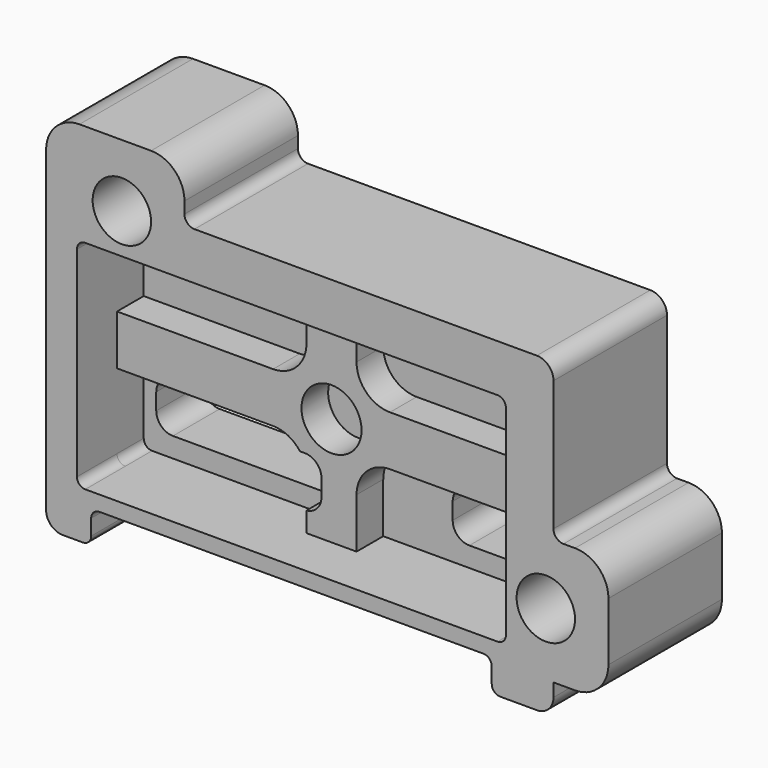
from build123d import *

# Parameters (mm, degrees)
SKETCH004_R     = 1.75
SKETCH004_W     = 11.5
SKETCH004_H     = 3
SKETCH004_W_2   = 6.5
PAD_DEPTH       = 8.5
FILLET_R        = 1
FILLET001_R     = 0.6
FILLET002_R     = 0.5
SKETCH_W        = 25.7
SKETCH_H        = 13
POCKET_DEPTH    = 3
FILLET003_R     = 0.5
SKETCH005_R     = 1.8
POCKET001_DEPTH = 2


with BuildPart() as part:
    # Sketch004 → Pad (new body)
    with BuildSketch(Plane.XZ):
        with BuildLine():
            Line((15.7, 8.35), (15.7, -0.06))
            Line((15.7, -0.06), (16.99, -0.06))
            ThreePointArc((18.99, -2.06), (18.404214, -0.645786), (16.99, -0.06))
            Line((18.99, -2.06), (18.99, -5.56))
            ThreePointArc((16.99, -7.56), (18.404214, -6.974214), (18.99, -5.56))
            Line((16.99, -7.56), (15.7, -7.56))
            Line((15.7, -8.35), (15.7, -7.56))
            ThreePointArc((14.7, -9.35), (15.407107, -9.057107), (15.7, -8.35))
            Line((14.7, -9.35), (12, -9.35))
            Line((12, -7.41), (12, -9.35))
            Line((-12, -7.41), (12, -7.41))
            Line((-12, -7.41), (-12, -9.35))
            Line((-12, -9.35), (-13.7, -9.35))
            ThreePointArc((-14.7, -8.35), (-14.407107, -9.057107), (-13.7, -9.35))
            Line((-14.7, -8.35), (-14.7, 10.64))
            ThreePointArc((-12.7, 12.64), (-14.114214, 12.054214), (-14.7, 10.64))
            Line((-12.7, 12.64), (-8.41, 12.64))
            ThreePointArc((-6.41, 10.64), (-6.995786, 12.054214), (-8.41, 12.64))
            Line((-6.41, 10.64), (-6.41, 9.35))
            Line((-6.41, 9.35), (14.7, 9.35))
            ThreePointArc((15.7, 8.35), (15.407107, 9.057107), (14.7, 9.35))
        make_face()
        with Locations((-10.16, 8.89)):
            Circle(SKETCH004_R, mode=Mode.SUBTRACT)
        with Locations((15.24, -3.81)):
            Circle(SKETCH004_R, mode=Mode.SUBTRACT)
        with Locations((-6.35, -3.81)):
            Rectangle(SKETCH004_W, SKETCH004_H, mode=Mode.SUBTRACT)
        with Locations((8.91, -3.81)):
            Rectangle(SKETCH004_W_2, SKETCH004_H, mode=Mode.SUBTRACT)
    extrude(amount=-PAD_DEPTH)

    # Fillet
    fillet_edges = [part.edges().sort_by_distance(p)[0] for p in [
        (12.16, 4.25, -5.31),
        (5.66, 4.25, -2.31),
        (12.16, 4.25, -2.31),
        (5.66, 4.25, -5.31),
        (-0.6, 4.25, -2.31),
        (-12.1, 4.25, -2.31),
        (-0.6, 4.25, -5.31),
        (-12.1, 4.25, -5.31),
    ]]
    fillet(fillet_edges, radius=FILLET_R)

    # Fillet001
    fillet001_edges = [part.edges().sort_by_distance(p)[0] for p in [
        (-6.41, 4.25, 9.35),
        (15.7, 4.25, -0.06),
    ]]
    fillet(fillet001_edges, radius=FILLET001_R)

    # Fillet002
    fillet002_edges = [part.edges().sort_by_distance(p)[0] for p in [
        (12, 4.25, -9.35),
        (-12, 4.25, -9.35),
        (-12, 4.25, -7.41),
        (12, 4.25, -7.41),
    ]]
    fillet(fillet002_edges, radius=FILLET002_R)

    # Sketch (on Face1 of Fillet002) → Pocket (cut)
    with BuildSketch(Plane.XZ):
        Rectangle(SKETCH_W, SKETCH_H)
    extrude(amount=-POCKET_DEPTH, mode=Mode.SUBTRACT)

    # Fillet003
    fillet003_edges = [part.edges().sort_by_distance(p)[0] for p in [
        (-12.85, 1.5, 6.5),
        (12.85, 1.5, 6.5),
        (-12.85, 1.5, -6.5),
        (12.85, 1.5, -6.5),
    ]]
    fillet(fillet003_edges, radius=FILLET003_R)

    # Sketch005 (on Face39 of Fillet003) → Pocket001 (cut)
    with BuildSketch(Plane.XZ.offset(-3)):
        Circle(SKETCH005_R)
        with BuildLine():
            Line((-12.85, 1.5), (-3.5, 1.5))
            ThreePointArc((-3.5, 1.5), (-2.085786, 2.085786), (-1.5, 3.5))
            Line((-1.5, 3.5), (-1.5, 6.5))
            Line((-1.5, 6.5), (-12.35, 6.5))
            ThreePointArc((-12.35, 6.5), (-12.703553, 6.353553), (-12.85, 6))
            Line((-12.85, 6), (-12.85, 1.5))
        make_face()
        with BuildLine():
            Line((1.5, 6.5), (12.35, 6.5))
            ThreePointArc((12.85, 6), (12.703553, 6.353553), (12.35, 6.5))
            Line((12.85, 6), (12.85, 1.5))
            Line((12.85, 1.5), (3.5, 1.5))
            ThreePointArc((1.5, 3.5), (2.085786, 2.085786), (3.5, 1.5))
            Line((1.5, 3.5), (1.5, 6.5))
        make_face()
        with BuildLine():
            Line((12.85, -1.5), (3.5, -1.5))
            ThreePointArc((3.5, -1.5), (2.085786, -2.085786), (1.5, -3.5))
            Line((1.5, -3.5), (1.5, -6.5))
            Line((1.5, -6.5), (12.35, -6.5))
            ThreePointArc((12.35, -6.5), (12.703553, -6.353553), (12.85, -6))
            Line((12.85, -6), (12.85, -1.5))
        make_face()
        with BuildLine():
            Line((-12.85, -1.5), (-3.5, -1.5))
            ThreePointArc((-1.5, -3.5), (-2.085786, -2.085786), (-3.5, -1.5))
            Line((-1.5, -3.5), (-1.5, -6.5))
            Line((-1.5, -6.5), (-12.35, -6.5))
            ThreePointArc((-12.85, -6), (-12.703553, -6.353553), (-12.35, -6.5))
            Line((-12.85, -6), (-12.85, -1.5))
        make_face()
    extrude(amount=-POCKET001_DEPTH, mode=Mode.SUBTRACT)


solid = part.part
